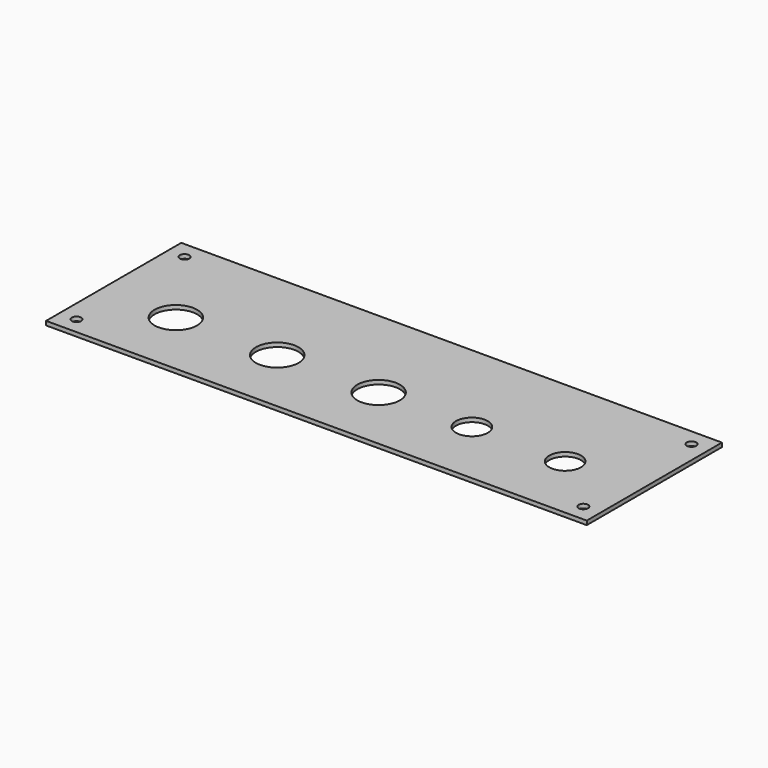
from build123d import *

# Parameters (mm, degrees)
SKETCH_W   = 203.2
SKETCH_H   = 63.5
SKETCH_R   = 8.001
SKETCH_R_2 = 5.969
SKETCH_R_3 = 1.778
PAD_DEPTH  = 1.524


with BuildPart() as part:
    # Sketch (on XY_Plane of Origin) → Pad (new body)
    with BuildSketch(Plane.XY):
        with Locations((101.6, 0)):
            Rectangle(SKETCH_W, SKETCH_H)
        with Locations((28.448, -6.35)):
            Circle(SKETCH_R, mode=Mode.SUBTRACT)
        with Locations((66.548, -6.35)):
            Circle(SKETCH_R, mode=Mode.SUBTRACT)
        with Locations((104.648, -6.35)):
            Circle(SKETCH_R, mode=Mode.SUBTRACT)
        with Locations((139.7, -6.35)):
            Circle(SKETCH_R_2, mode=Mode.SUBTRACT)
        with Locations((174.752, -6.35)):
            Circle(SKETCH_R_2, mode=Mode.SUBTRACT)
        with Locations((196.85, -25.4)):
            Circle(SKETCH_R_3, mode=Mode.SUBTRACT)
        with Locations((196.85, 25.4)):
            Circle(SKETCH_R_3, mode=Mode.SUBTRACT)
        with Locations((6.35, -25.4)):
            Circle(SKETCH_R_3, mode=Mode.SUBTRACT)
        with Locations((6.35, 25.4)):
            Circle(SKETCH_R_3, mode=Mode.SUBTRACT)
    extrude(amount=PAD_DEPTH)


solid = part.part
